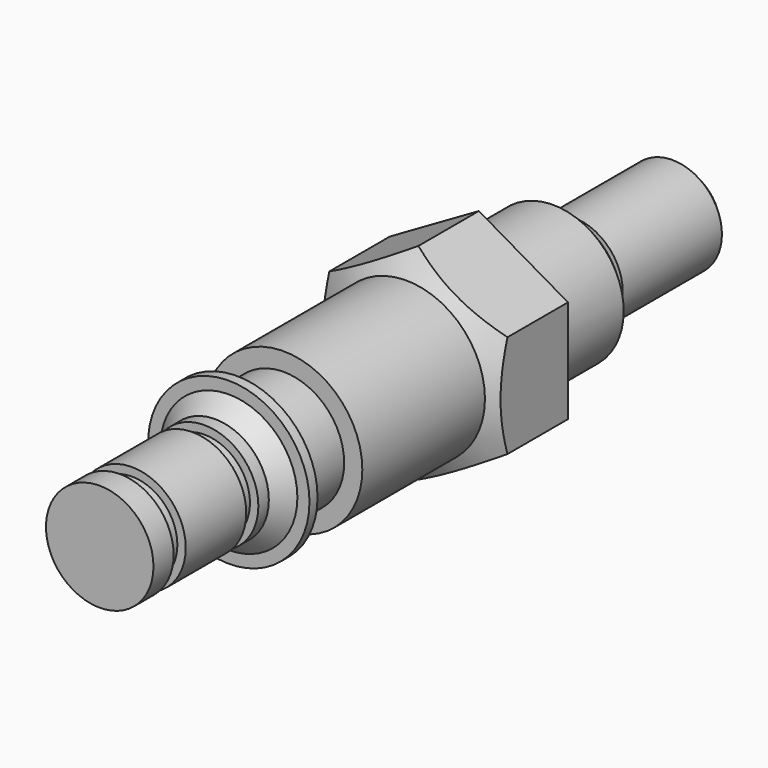
from build123d import *

# Parameters (mm, degrees)
SKETCH001_R  = 6
POCKET_DEPTH = 5
CHAMFER_SIZE = 0.5


with BuildPart() as part:
    # Sketch → Revolution (revolve)
    with BuildSketch(Plane.XY):
        Polygon((0, 0), (0, 36), (2.45, 36), (2.45, 29.35), (1.7, 29.35), (1.7, 28.6), (3.5, 28.6), (3.5, 23.5), (5.1, 23.5), (5.1, 19.75), (3.9, 19), (3.9, 11.4), (3, 11.4), (3, 8.5), (4, 8.5), (4, 8), (3.4, 8), (2.665, 7.15), (2.665, 6.5), (2.25, 6.5), (2.25, 5.75), (2.665, 5.75), (2.665, 2), (2.25, 2), (2.25, 1.25), (2.665, 1.25), (2.665, 0), align=None)
    revolve(axis=Axis((0, 0, 0), (0, 1, 0)))

    # Sketch001 (on DatumPlane) → Pocket (cut)
    with BuildSketch(Plane(origin=(0, 23.5, 0), x_dir=(-1, 0, 0), z_dir=(0, 1, 0))):
        Circle(SKETCH001_R)
        Polygon((4.41673, 2.55), (0, 5.1), (-4.41673, 2.55), (-4.41673, -2.55), (0, -5.1), (4.41673, -2.55), align=None, mode=Mode.SUBTRACT)
    extrude(amount=-POCKET_DEPTH, mode=Mode.SUBTRACT)

    # Chamfer
    chamfer_edges = [part.edges().sort_by_distance(p)[0] for p in [
        (4.158365, 19.161478, 0),
        (2.25, 1.625, 0),
        (-3.5, 28.6, 0),
        (-2.45, 36, 0),
    ]]
    chamfer(chamfer_edges, length=CHAMFER_SIZE)


solid = part.part
